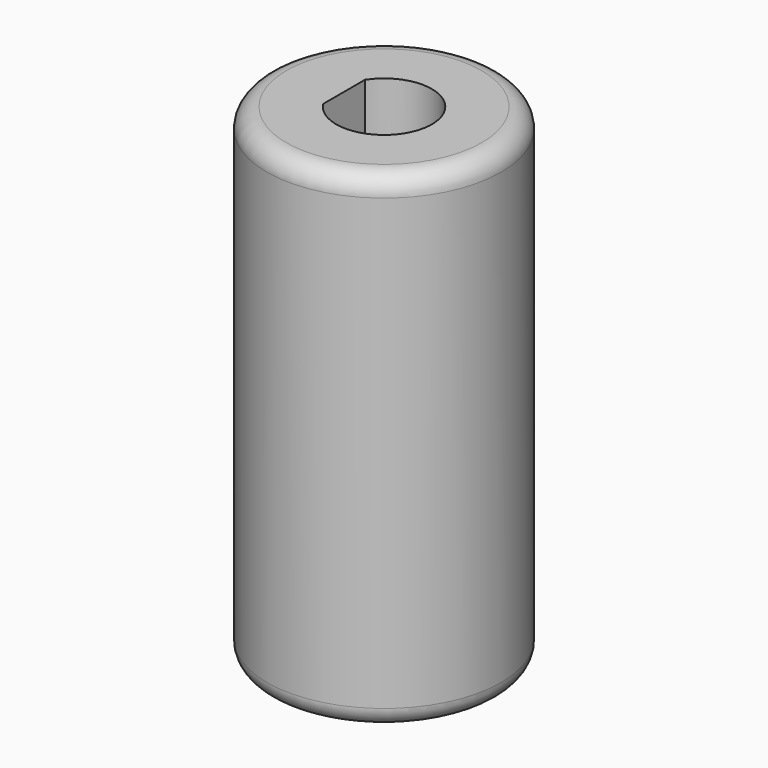
from build123d import *

# Parameters (mm, degrees)
F0_R     = 6
F2_DEPTH = 25
F3_DEPTH = 25
F4_R     = 1


with BuildPart() as f2:
    # F0 (on Top) → F2 (new body)
    with BuildSketch(Plane.XY):
        Circle(F0_R)
    extrude(amount=F2_DEPTH)

    # F1 (on Top) → F3 (cut)
    with BuildSketch(Plane.XY):
        with BuildLine():
            Line((-2.05, 1.341641), (-2.05, -1.341641))
            ThreePointArc((-2.05, -1.341641), (2.45, 0), (-2.05, 1.341641))
        make_face()
    extrude(amount=F3_DEPTH, mode=Mode.SUBTRACT)

    # F4
    f4_edges = [f2.edges().sort_by_distance(p)[0] for p in [
        (-6, 0, 25),
        (-6, 0, 0),
    ]]
    fillet(f4_edges, radius=F4_R)


solid = f2.part
